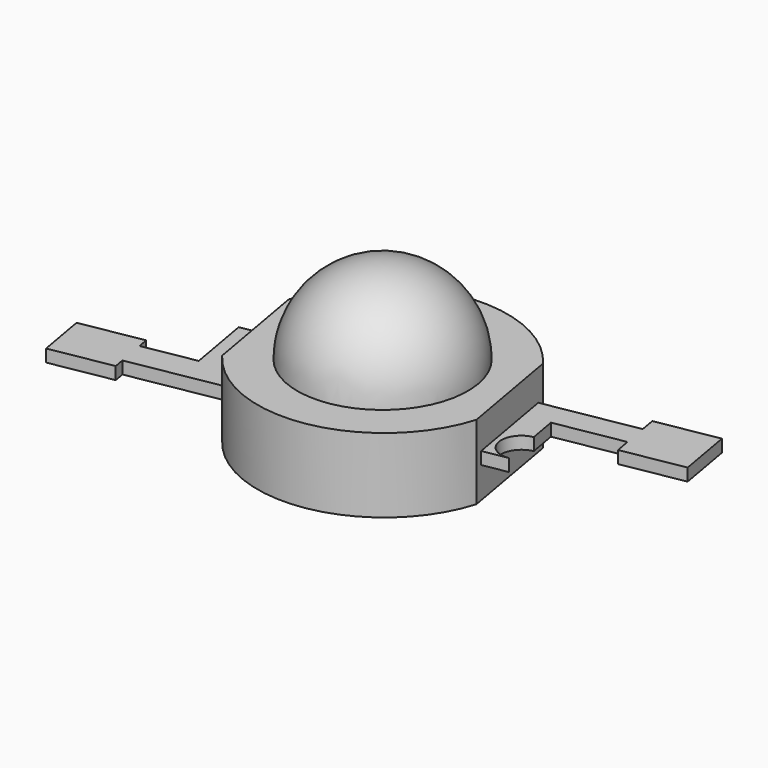
from build123d import *

# Parameters (mm, degrees)
REVOLUTION003_ANGLE       = -180
PAD019_DEPTH              = 0.4
BODY018_PLACEMENT_ANGLE   = 180
PAD018_DEPTH              = 2.4
FUSION004_PLACEMENT_ANGLE = 10


with BuildPart() as light003:
    # Sketch030 (on Face1 of ShapeBinder007) → Revolution003 (revolve)
    with BuildSketch(Plane.XY.offset(2.4)):
        with BuildLine():
            ThreePointArc((-2.75, 0), (0, -2.75), (2.75, 0))
            Line((-2.75, 0), (2.75, 0))
        make_face()
    revolve(axis=Axis((-2.75, 0, 2.4), (1, 0, 0)), revolution_arc=REVOLUTION003_ANGLE)


with BuildPart() as body018:
    # Sketch031 (on Face1 of ShapeBinder008) → Pad019 (new body)
    with BuildSketch(Plane(origin=(0, 0, 0), x_dir=(1, 0, 0), z_dir=(0, 0, -1))):
        with BuildLine():
            Line((3.65, 1.5), (6.65, 1.5))
            Line((6.65, 1.5), (6.65, 2))
            Line((6.65, 2), (8.65, 2))
            Line((8.65, 2), (8.65, 0.2))
            Line((8.65, 0.2), (6.65, 0.2))
            Line((6.65, 0.2), (6.65, 0.7))
            Line((6.65, 0.7), (4.45, 0.7))
            Line((4.45, 0.7), (4.45, -0.2))
            ThreePointArc((4.45, -0.2), (3.8, -0.85), (4.45, -1.5))
            Line((4.45, -1.5), (-6.65, -1.5))
            Line((-6.65, -1.5), (-6.65, -1.85))
            Line((-6.65, -1.85), (-8.65, -1.85))
            Line((-8.65, -1.85), (-8.65, -0.25))
            Line((-8.65, -0.25), (-6.65, -0.25))
            Line((-6.65, -0.25), (-6.65, -0.6))
            Line((-6.65, -0.6), (-4.95, -0.6))
            Line((-4.95, -0.6), (-4.95, 1.5))
            Line((-4.95, 1.5), (3.65, 1.5))
        make_face()
    extrude(amount=-PAD019_DEPTH)


with BuildPart() as body018_1:
    # Body018 placement: moved
    add(body018.part.moved(Location((0, 0, 1.4))).rotate(Axis((0, 0, 1.4), (1, 0, 0)), BODY018_PLACEMENT_ANGLE))


with BuildPart() as led4:
    # Sketch029 → Pad018 (new body)
    with BuildSketch(Plane.XY):
        with BuildLine():
            Line((-3.65, 1.75), (-3.65, -1.75))
            ThreePointArc((-3.65, -1.75), (0, -4), (3.65, -1.75))
            Line((3.65, 1.75), (3.65, -1.75))
            ThreePointArc((3.65, 1.75), (0, 4), (-3.65, 1.75))
        make_face()
    extrude(amount=PAD018_DEPTH)

    # Fusion004: union light003, Body018
    add(light003.part)
    add(body018_1.part)


with BuildPart() as led4_1:
    # Fusion004 placement: moved
    add(led4.part.moved(Location((27, -36.5, -2.8))).rotate(Axis((27, -36.5, -2.8), (0, 0, 1)), FUSION004_PLACEMENT_ANGLE))


solid = led4_1.part
